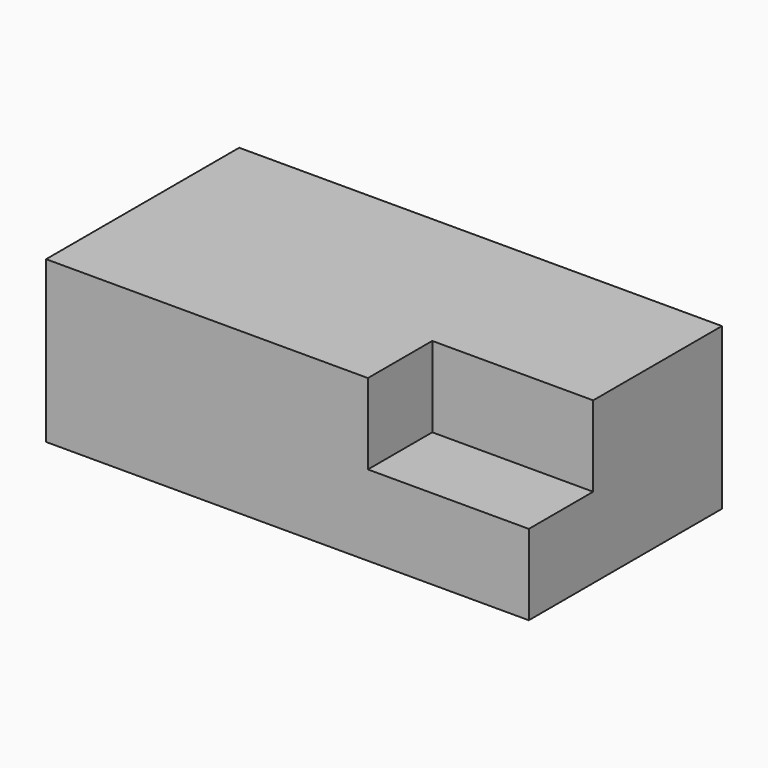
from build123d import *

# Parameters (mm, degrees)
F0_W     = 152.4
F0_H     = 50.8
F1_DEPTH = 76.2
F2_DEPTH = 25.4
F3_W     = 50.8
F3_H     = 25.4
F4_DEPTH = 25.4
F5_DEPTH = 25.4
F6_W     = 50.8
F6_H     = 25.4
F7_DEPTH = 25.4


with BuildPart() as f1:
    # F0 (on Front) → F1 (new body)
    with BuildSketch(Plane.XZ):
        with Locations((76.2, 25.4)):
            Rectangle(F0_W, F0_H)
    extrude(amount=F1_DEPTH)

    # F2 (add): faces of the model
    f2_faces = [f1.faces().sort_by_distance(p)[0] for p in [
        (76.2, -76.2, 25.4),
        (76.2, 0, 25.4),
    ]]
    extrude(f2_faces, amount=F2_DEPTH, dir=(0, -1, 0))

    # F3 (on face) → F4 (cut)
    with BuildSketch(Plane.XZ.offset(101.6)):
        with Locations((127, 38.1)):
            Rectangle(F3_W, F3_H)
    extrude(amount=-F4_DEPTH, mode=Mode.SUBTRACT)

    # F5 (cut): a face of the model
    f5_faces = [f1.faces().sort_by_distance(p)[0] for p in [
        (66.04, -101.6, 22.86),
    ]]
    extrude(f5_faces, amount=-F5_DEPTH, mode=Mode.SUBTRACT)

    # F6 (on face) → F7 (cut)
    with BuildSketch(Plane.XZ.offset(76.2)):
        with Locations((127, 38.1)):
            Rectangle(F6_W, F6_H)
    extrude(amount=-F7_DEPTH, mode=Mode.SUBTRACT)


solid = f1.part
